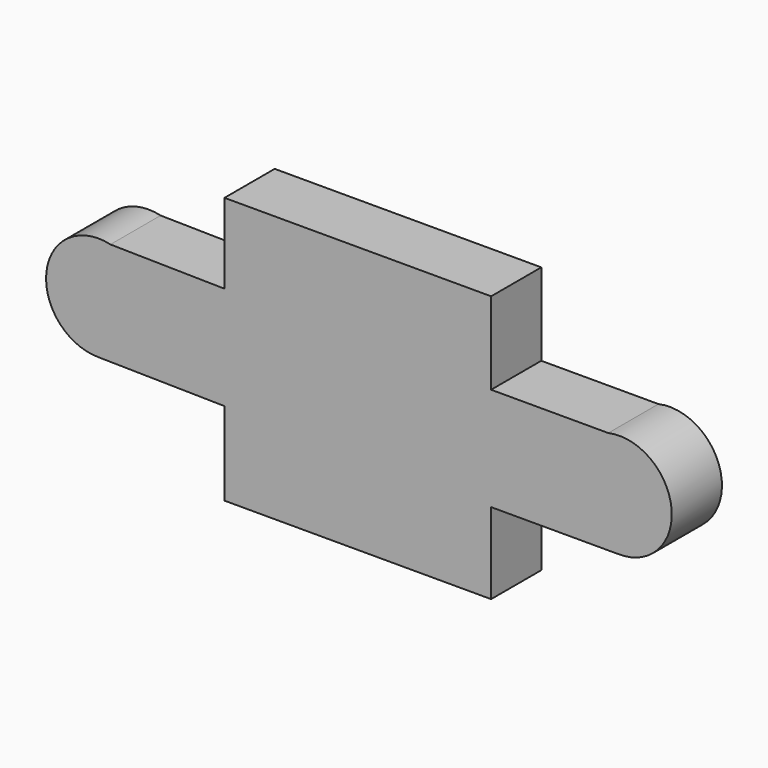
from build123d import *

# Parameters (mm, degrees)
F1_DEPTH = 4


with BuildPart() as f1:
    # F0 (on Front) → F1 (new body)
    with BuildSketch(Plane.XZ):
        Polygon((0, 11.8332719468), (-8.6397333108, 11.8332719468), (-8.6397333108, 6.7300641264), (-8.6397333108, 0.1404409475), (-8.6397333108, -5.1667280532), (-0.1397333108, -5.1667280532), align=None)
        Polygon((8.3602666892, 11.8332719468), (0, 11.8332719468), (-0.1397333108, -5.1667280532), (8.3602666892, -5.1667280532), (8.3602666892, 0), (8.3602666892, 6.5887328237), align=None)
        with BuildLine():
            Line((-8.6397333108, 0.1404409475), (-8.6397333108, 6.7300641264))
            Line((-8.6397333108, 6.7300641264), (-15.9138074311, 6.8496522601))
            ThreePointArc((-15.9138074311, 6.8496522601), (-14.0683365047, 5.6735222105), (-13.3499665501, 3.6064011588))
            ThreePointArc((-13.3499665501, 3.6064011588), (-14.2983442905, 1.2776715705), (-16.6038153702, 0.2740755688))
            Line((-16.6038153702, 0.2740755688), (-16.6038047398, 0.2713728604))
            Line((-16.6038047398, 0.2713728604), (-8.6397333108, 0.1404409475))
        make_face()
        with BuildLine():
            ThreePointArc((-13.3499665501, 3.6064011588), (-14.0683365047, 5.6735222105), (-15.9138074311, 6.8496522601))
            Line((-15.9138074311, 6.8496522601), (-16.6297248975, 6.8614221751))
            Line((-16.6297248975, 6.8614221751), (-16.6038153702, 0.2740755688))
            ThreePointArc((-16.6038153702, 0.2740755688), (-14.2983442905, 1.2776715705), (-13.3499665501, 3.6064011588))
        make_face()
        with BuildLine():
            Line((-16.6297248975, 6.8614221751), (-15.9138074311, 6.8496522601))
            ThreePointArc((-15.9138074311, 6.8496522601), (-19.9983087172, 3.954267951), (-16.6038153702, 0.2740755688))
            Line((-16.6038153702, 0.2740755688), (-16.6297248975, 6.8614221751))
        make_face()
        with BuildLine():
            Line((15.8297359903, 6.5887328237), (8.3602666892, 6.5887328237))
            Line((8.3602666892, 6.5887328237), (8.3602666892, 0))
            Line((8.3602666892, 0), (16.4115056396, 0))
            Line((16.4115056396, 0), (16.4115606959, 0.0027021685))
            ThreePointArc((16.4115606959, 0.0027021685), (13.2254096253, 3.0399456203), (15.8297359903, 6.5887328237))
        make_face()
        with BuildLine():
            Line((16.5457502007, 6.5887328237), (15.8297359903, 6.5887328237))
            ThreePointArc((15.8297359903, 6.5887328237), (13.2254096253, 3.0399456203), (16.4115606959, 0.0027021685))
            Line((16.4115606959, 0.0027021685), (16.5457502007, 6.5887328237))
        make_face()
        with BuildLine():
            ThreePointArc((19.8790221475, 3.3332719468), (18.634294166, 5.9310952618), (15.8297359903, 6.5887328237))
            Line((15.8297359903, 6.5887328237), (16.5457502007, 6.5887328237))
            Line((16.5457502007, 6.5887328237), (16.4115606959, 0.0027021685))
            ThreePointArc((16.4115606959, 0.0027021685), (18.8547988965, 0.929317706), (19.8790221475, 3.3332719468))
        make_face()
    extrude(amount=F1_DEPTH)


solid = f1.part
